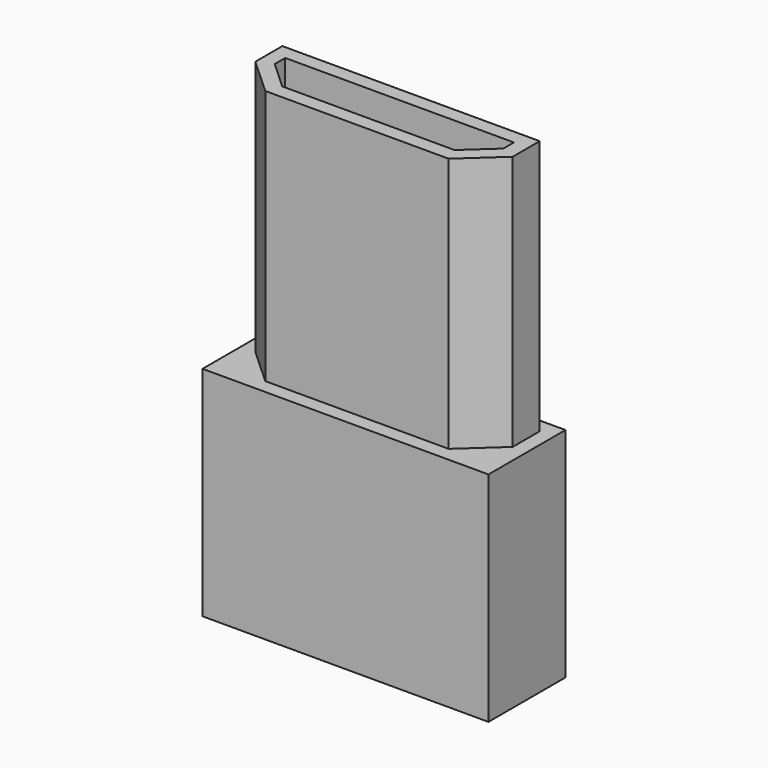
from build123d import *

# Parameters (mm, degrees)
F1_DEPTH = 6.8
F2_W     = 7.612
F2_H     = 2.562
F3_DEPTH = 5.8


with BuildPart() as f1:
    # F0 (on Top) → F1 (new body)
    with BuildSketch(Plane.XY):
        Polygon((0, 0.9), (0.984167, 0), (5.865833, 0), (6.85, 0.9), (6.85, 1.8), (0, 1.8), align=None)
        Polygon((1.132109, 0.381), (0.381, 1.067873), (0.381, 1.419), (6.469, 1.419), (6.469, 1.067873), (5.717891, 0.381), align=None, mode=Mode.SUBTRACT)
    extrude(amount=F1_DEPTH)

    # F2 (on Top) → F3 (join)
    with BuildSketch(Plane.XY):
        with Locations((3.425, 0.9)):
            Rectangle(F2_W, F2_H)
    extrude(amount=-F3_DEPTH)


solid = f1.part
